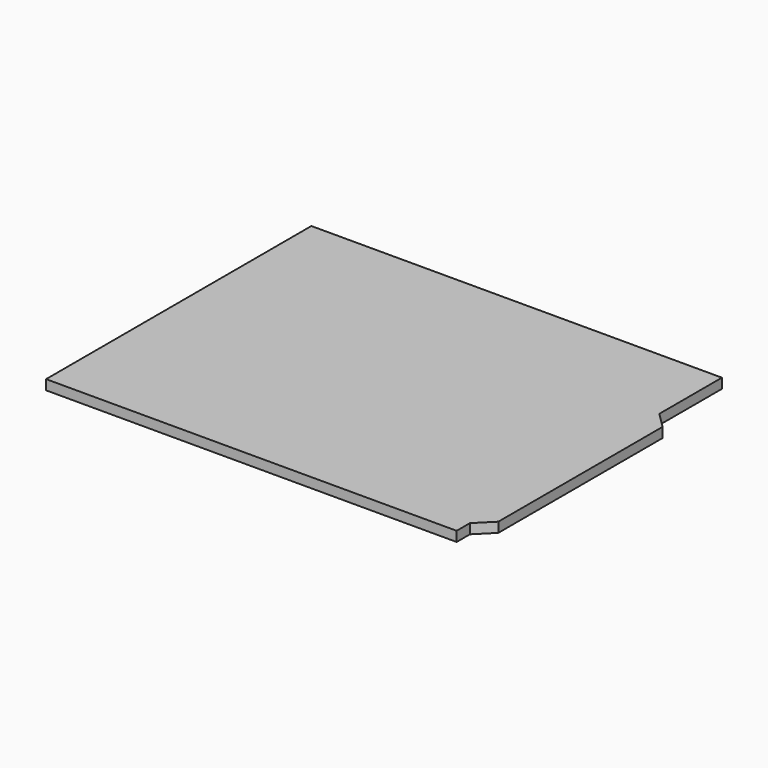
from build123d import *

# Parameters (mm, degrees)
F1_DEPTH = 1.588


with BuildPart() as f1:
    # F0 (on Top) → F1 (new body)
    with BuildSketch(Plane.XY):
        Polygon((-66.04, 0), (0, 0), (0, 2.667), (0, 40.767), (0, 53.34), (-66.04, 53.34), align=None)
        Polygon((0, 40.767), (0, 2.667), (2.54, 5.207), (2.54, 38.227), align=None)
    extrude(amount=F1_DEPTH)


solid = f1.part
